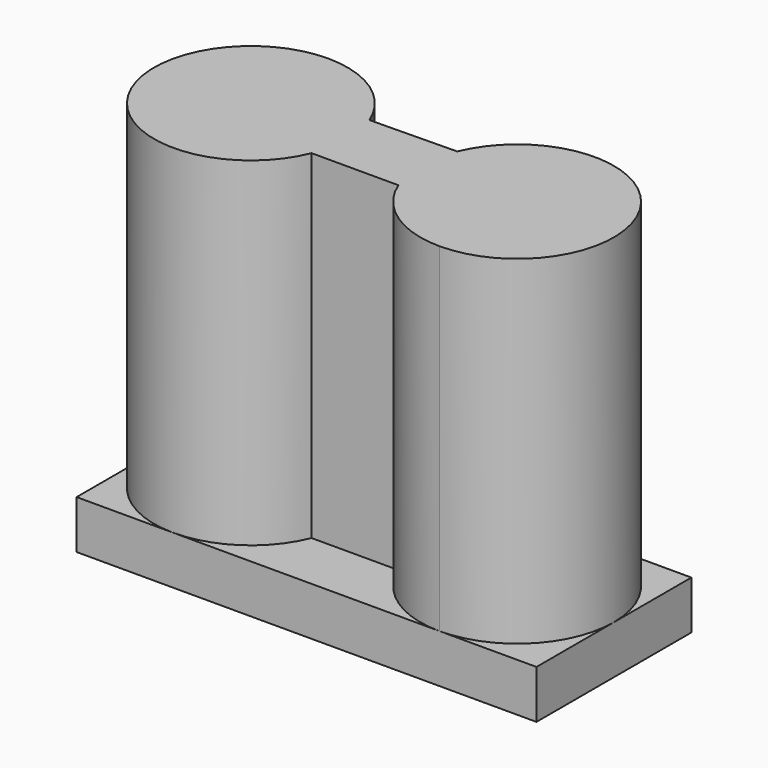
from build123d import *

# Parameters (mm, degrees)
F0_W     = 48.26
F0_H     = 20.32
F1_DEPTH = 40.64
F2_W     = 87.867445
F2_H     = 38.751542
F3_DEPTH = 35.56


with BuildPart() as f1:
    # F0 (on Top) → F1 (new body)
    with BuildSketch(Plane.XY):
        with Locations((-24.13, 10.16)):
            Rectangle(F0_W, F0_H)
    extrude(amount=F1_DEPTH)

    # F2 (on face) → F3 (cut)
    with BuildSketch(Plane.XY.offset(40.64)):
        with Locations((-22.077074, 9.126777)):
            Rectangle(F2_W, F2_H)
        with BuildLine():
            ThreePointArc((-28.681428, 6.35), (-48.259925, 10.199084), (-28.652394, 13.897425))
            Line((-28.652394, 13.897425), (-19.549165, 14.041903))
            ThreePointArc((-19.549165, 14.041903), (-7.4e-05, 10.121158), (-19.578572, 6.35))
            Line((-19.578572, 6.35), (-28.681428, 6.35))
        make_face(mode=Mode.SUBTRACT)
    extrude(amount=-F3_DEPTH, mode=Mode.SUBTRACT)


solid = f1.part
